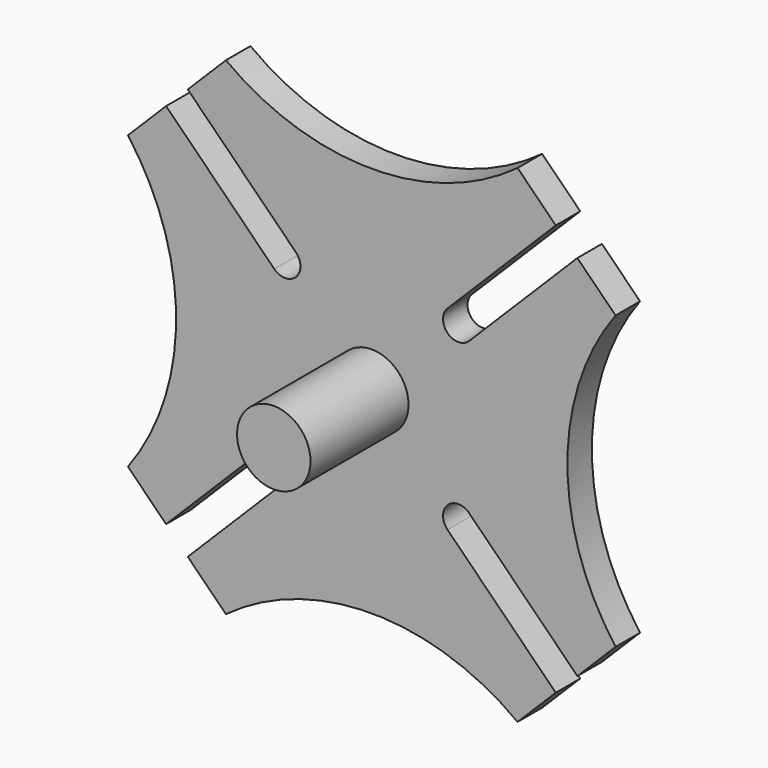
from build123d import *

# Parameters (mm, degrees)
F0_R     = 6
F1_DEPTH = 5
F2_DEPTH = 25


with BuildPart() as f1:
    # F0 (on Front) → F1 (new body)
    with BuildSketch(Plane.XZ):
        with BuildLine():
            ThreePointArc((23.816588, 39.82138), (0, 31.958121), (-23.816588, 39.82138))
            Line((-23.816588, 39.82138), (-30.048591, 33.590656))
            Line((-30.048591, 33.590656), (-12.372736, 15.911172))
            ThreePointArc((-12.372736, 15.911172), (-12.373099, 12.375639), (-15.908633, 12.376001))
            Line((-15.908633, 12.376001), (-33.584488, 30.055485))
            Line((-33.584488, 30.055485), (-39.81823, 23.823022))
            ThreePointArc((-39.81823, 23.823022), (-31.950202, 0), (-39.81823, -23.823022))
            Line((-39.81823, -23.823022), (-33.584488, -30.055485))
            Line((-33.584488, -30.055485), (-15.908633, -12.376001))
            ThreePointArc((-15.908633, -12.376001), (-12.373099, -12.375639), (-12.372736, -15.911172))
            Line((-12.372736, -15.911172), (-30.048591, -33.590656))
            Line((-30.048591, -33.590656), (-23.816588, -39.82138))
            ThreePointArc((-23.816588, -39.82138), (0, -31.958121), (23.816588, -39.82138))
            Line((23.816588, -39.82138), (30.048591, -33.590656))
            Line((30.048591, -33.590656), (12.372736, -15.911172))
            ThreePointArc((12.372736, -15.911172), (12.373099, -12.375639), (15.908633, -12.376001))
            Line((15.908633, -12.376001), (33.584488, -30.055485))
            Line((33.584488, -30.055485), (39.81823, -23.823022))
            ThreePointArc((39.81823, -23.823022), (31.950202, 0), (39.81823, 23.823022))
            Line((39.81823, 23.823022), (33.584488, 30.055485))
            Line((33.584488, 30.055485), (15.908633, 12.376001))
            ThreePointArc((15.908633, 12.376001), (12.373099, 12.375639), (12.372736, 15.911172))
            Line((12.372736, 15.911172), (30.048591, 33.590656))
            Line((30.048591, 33.590656), (23.816588, 39.82138))
        make_face()
        Circle(F0_R, mode=Mode.SUBTRACT)
    extrude(amount=F1_DEPTH)


with BuildPart() as f2:
    # F0 (on Front) → F2 (new body)
    with BuildSketch(Plane.XZ):
        Circle(F0_R)
    extrude(amount=F2_DEPTH)


solid = Compound([f1.part, f2.part])
